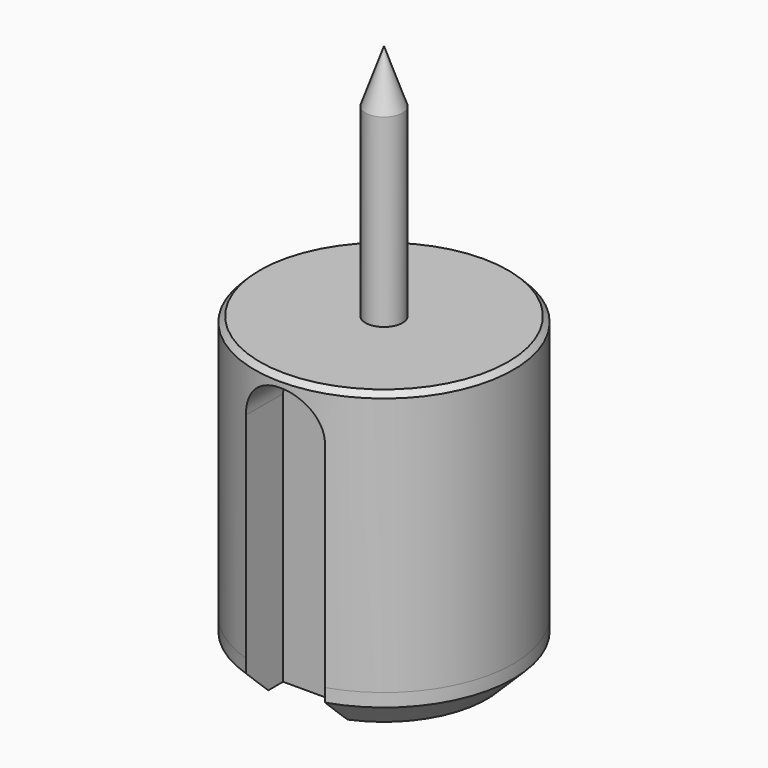
from build123d import *

# Parameters (mm, degrees)
F3_START = -2
F3_DEPTH = 23
F4_DEPTH = 25
F5_DEPTH = 1.5
F6_SIZE  = 1
F7_SIZE2 = 0.7
F7_SIZE  = 2
F8_SIZE  = 0.2
F9_DEPTH = 25
F10_W    = 4.5
F10_H    = 5.8


with BuildPart() as f1:
    # F0 (on Front) → F1 (revolve)
    with BuildSketch(Plane.XZ):
        Polygon((-4.9, 9), (-4.9, 0), (0, 0), (0, 19), (-0.7, 19), (-0.7, 10), (-4.9, 10), align=None)
    revolve(axis=Axis((0, 0, 9.5), (0, 0, -1)))

    # F2 (on Front) → F3 (cut)
    with BuildSketch(Plane.XZ.offset(F3_START)):
        with BuildLine():
            Line((1.5, 0), (1.5, 8.1))
            ThreePointArc((1.5, 8.1), (0, 9.6), (-1.5, 8.1))
            Line((-1.5, 8.1), (-1.5, 0))
            Line((-1.5, 0), (1.5, 0))
        make_face()
    extrude(amount=-F3_DEPTH, mode=Mode.SUBTRACT)

    # F2 (on Front) → F4 (cut)
    with BuildSketch(Plane.XZ):
        with BuildLine():
            Line((1.5, 0), (1.5, 8.1))
            ThreePointArc((1.5, 8.1), (0, 9.6), (-1.5, 8.1))
            Line((-1.5, 8.1), (-1.5, 0))
            Line((-1.5, 0), (1.5, 0))
        make_face()
    extrude(amount=-F4_DEPTH, mode=Mode.SUBTRACT)

    # F1_face (on face) → F5 (join)
    with BuildSketch(Plane(origin=(0, -0.5723183731, 0), x_dir=(1, 0, 0), z_dir=(0, 0, -1))):
        with BuildLine():
            Line((1.5, -0.5723183731), (1.5, -5.237079889))
            ThreePointArc((1.5, -5.237079889), (2.8861739379, 3.3874796015), (-4.9, -0.5723183731))
            ThreePointArc((-4.9, -0.5723183731), (-3.9597979746, -3.458492311), (-1.5, -5.237079889))
            Line((-1.5, -5.237079889), (-1.5, -0.5723183731))
            Line((-1.5, -0.5723183731), (1.5, -0.5723183731))
        make_face()
    extrude(amount=F5_DEPTH)

    # F6
    f6_edges = [f1.edges().sort_by_distance(p)[0] for p in [
        (-4.9, 0, 4.25),
        (2.886174, -3.959798, -1.5),
        (-3.959798, 2.886174, -1.5),
    ]]
    chamfer(f6_edges, length=F6_SIZE)

    # F7
    f7_edges = [f1.edges().sort_by_distance(p)[0] for p in [
        (0.7, 0, 19),
    ]]
    f7_side = f1.faces().sort_by_distance((0.7, 0, 14.5))[0]
    chamfer(f7_edges, length=F7_SIZE, length2=F7_SIZE2, reference=f7_side)

    # F8
    f8_edges = [f1.edges().sort_by_distance(p)[0] for p in [
        (4.9, 0, 10),
    ]]
    chamfer(f8_edges, length=F8_SIZE)

    # F5_face (on face) → F9 (cut)
    with BuildSketch(Plane(origin=(0, 0, 3.8942483753), x_dir=(-1, 0, 0), z_dir=(0, 1, 0))):
        with BuildLine():
            ThreePointArc((1.5, 4.2057516247), (0, 5.7057516247), (-1.5, 4.2057516247))
            Line((-1.5, 4.2057516247), (-1.5, -5.3942483753))
            Line((-1.5, -5.3942483753), (1.5, -5.3942483753))
            Line((1.5, -5.3942483753), (1.5, 4.2057516247))
        make_face()
    extrude(amount=-F9_DEPTH, mode=Mode.SUBTRACT)

    # F10 (on face) → F11 (join, up to the next surface of F1)
    with BuildSketch(Plane(origin=(0, 0, -1.5), x_dir=(1, 0, 0), z_dir=(0, 0, -1))):
        Rectangle(F10_W, F10_H)
    extrude(until=Until.NEXT, dir=(0, 0, 1))


solid = f1.part
